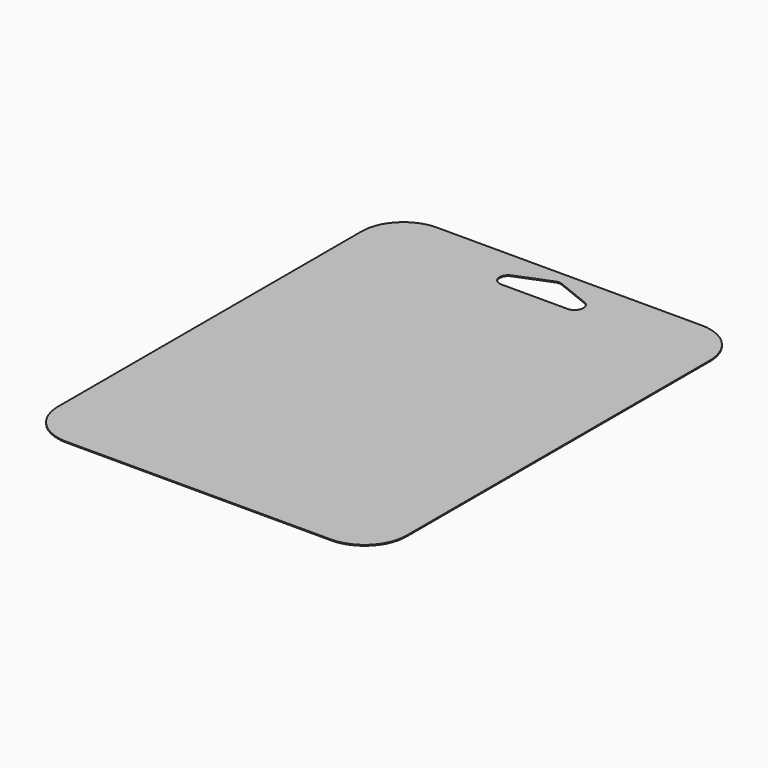
from build123d import *

# Parameters (mm, degrees)
F0_W     = 158
F0_H     = 210
F1_DEPTH = 0.2032
F2_R     = 19


with BuildPart() as f1:
    # F0 (on Top) → F1 (new body, symmetric)
    with BuildSketch(Plane.XY):
        with Locations((0, -85.2)):
            Rectangle(F0_W, F0_H)
        with BuildLine():
            Line((15, 0), (-15, 0))
            ThreePointArc((-15, 0), (-18.927826, 3.24357), (-16.485563, 7.713907))
            Line((-16.485563, 7.713907), (-1.485563, 13.713907))
            ThreePointArc((-1.485563, 13.713907), (0, 14), (1.485563, 13.713907))
            Line((1.485563, 13.713907), (16.485563, 7.713907))
            ThreePointArc((16.485563, 7.713907), (18.927826, 3.24357), (15, 0))
        make_face(mode=Mode.SUBTRACT)
    extrude(amount=F1_DEPTH, both=True)

    # F2
    f2_edges = [f1.edges().sort_by_distance(p)[0] for p in [
        (79, 19.8, 0),
        (-79, 19.8, 0),
        (79, -190.2, 0),
        (-79, -190.2, 0),
    ]]
    fillet(f2_edges, radius=F2_R)


solid = f1.part
